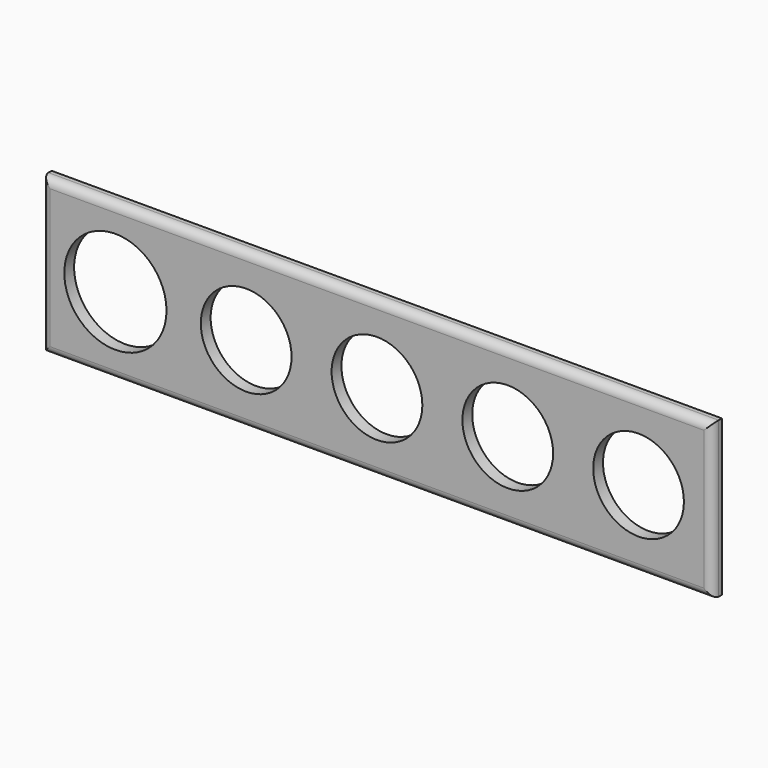
from build123d import *

# Parameters (mm, degrees)
F0_W     = 1041.4
F0_H     = 241.3
F0_R     = 79.375
F0_R_2   = 70.485
F1_DEPTH = 19.05
F2_R     = 12.7


with BuildPart() as f1:
    # F0 (on Front) → F1 (new body)
    with BuildSketch(Plane.XZ):
        with Locations((17.794014, -118.442795)):
            Rectangle(F0_W, F0_H)
        with Locations((-388.605986, -118.442795)):
            Circle(F0_R, mode=Mode.SUBTRACT)
        with Locations((-185.405986, -118.442795)):
            Circle(F0_R_2, mode=Mode.SUBTRACT)
        with Locations((17.794014, -118.442795)):
            Circle(F0_R_2, mode=Mode.SUBTRACT)
        with Locations((220.994014, -118.442795)):
            Circle(F0_R_2, mode=Mode.SUBTRACT)
        with Locations((424.194014, -118.442795)):
            Circle(F0_R_2, mode=Mode.SUBTRACT)
    extrude(amount=F1_DEPTH)

    # F2
    f2_edges = [f1.edges().sort_by_distance(p)[0] for p in [
        (17.794014, -19.05, 2.207205),
        (-502.905986, -19.05, -118.442795),
        (17.794014, -19.05, -239.092795),
        (538.494014, -19.05, -118.442795),
    ]]
    fillet(f2_edges, radius=F2_R)


solid = f1.part
